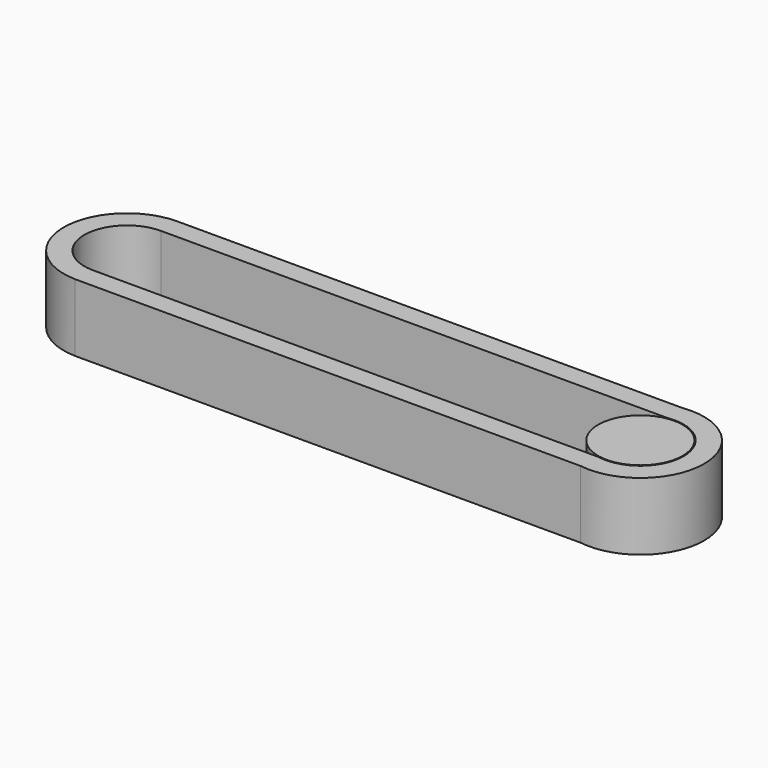
from build123d import *

# Parameters (mm, degrees)
F1_DEPTH = 2.5
F2_DEPTH = 3


with BuildPart() as f1:
    # F0 (on Top) → F1 (new body, symmetric)
    with BuildSketch(Plane.XY):
        with BuildLine():
            ThreePointArc((41.9669720974, -7.4628552812), (50.6303321073, -0.0758673382), (42.1172516139, 7.483819034))
            Line((42.1172516139, 7.483819034), (-17.7019845665, 7.483819034))
            ThreePointArc((-17.7019845665, 7.483819034), (-25.1756985231, 0.084778927), (-17.8520783344, -7.4628552812))
            Line((-17.8520783344, -7.4628552812), (41.9669720974, -7.4628552812))
        make_face()
        with BuildLine():
            Line((42.1659099961, -5.0290942582), (-17.5787301818, -5.0290942582))
            Line((-17.5787301818, -5.0290942582), (-17.8252389511, -5.0290942582))
            ThreePointArc((-17.8252389511, -5.0290942582), (-22.7419374955, 0.0713600592), (-17.7019845665, 5.050058011))
            Line((-17.7019845665, 5.050058011), (42.2891743421, 5.050058011))
            ThreePointArc((42.2891743421, 5.050058011), (48.1965702074, -0.0625171535), (42.1659099961, -5.0290942582))
        make_face(mode=Mode.SUBTRACT)
    extrude(amount=F1_DEPTH, both=True)

    # F2 (add, symmetric): a face of the model
    f2_faces = [f1.faces().sort_by_distance(p)[0] for p in [
        (49.8574259802, -0.0680962477, -2.5),
    ]]
    extrude(f2_faces, amount=F2_DEPTH, both=True)


with BuildPart() as f1b:
    # F0 (on Top) → F1, piece 2 (new body, symmetric)
    with BuildSketch(Plane.XY):
        with BuildLine():
            ThreePointArc((42.2980154335, 4.9377359991), (38.0850127901, 0.0618314869), (42.1761423349, -4.9167722464))
            ThreePointArc((42.1761423349, -4.9167722464), (48.0842481343, -0.0618314869), (42.2980154335, 4.9377359991))
        make_face()
    extrude(amount=F1_DEPTH, both=True)


solid = Compound([f1.part, f1b.part])
